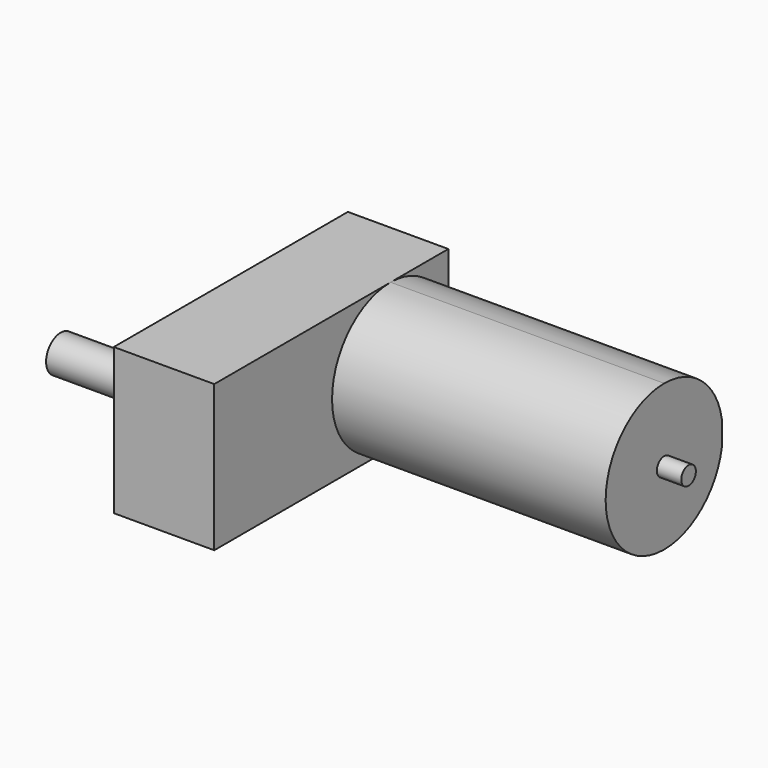
from build123d import *

# Parameters (mm, degrees)
F0_W     = 52.324
F0_H     = 152.4
F1_DEPTH = 76.2
F3_DEPTH = 142.494
F4_R     = 23.495
F5_DEPTH = 4.826
F6_R     = 9.525
F7_DEPTH = 55.372
F8_R     = 4.7625
F9_DEPTH = 12.7


with BuildPart() as f1:
    # F0 (on Top) → F1 (new body)
    with BuildSketch(Plane.XY):
        with Locations((26.162, 76.2)):
            Rectangle(F0_W, F0_H)
    extrude(amount=F1_DEPTH)

    # F2 (on face) → F3 (join)
    with BuildSketch(Plane.YZ.offset(52.324)):
        with BuildLine():
            Line((152.4, 31.89907), (152.4, 44.30093))
            ThreePointArc((152.4, 44.30093), (139.459111, 67.15052), (114.808, 76.2))
            ThreePointArc((114.808, 76.2), (76.708, 38.1), (114.808, 0))
            ThreePointArc((114.808, 0), (139.459111, 9.04948), (152.4, 31.89907))
        make_face()
    extrude(amount=F3_DEPTH)

    # F4 (on face) → F5 (join)
    with BuildSketch(Plane(origin=(0, 0, 0), x_dir=(0, -1, 0), z_dir=(-1, 0, 0))):
        with Locations((-40.695388, 37.154574)):
            Circle(F4_R)
    extrude(amount=F5_DEPTH)

    # F6 (on face) → F7 (join)
    with BuildSketch(Plane(origin=(-4.826, 0, 0), x_dir=(0, -1, 0), z_dir=(-1, 0, 0))):
        with Locations((-40.695388, 37.154574)):
            Circle(F6_R)
    extrude(amount=F7_DEPTH)

    # F8 (on face) → F9 (join)
    with BuildSketch(Plane.YZ.offset(194.818)):
        with Locations((114.808, 38.1)):
            Circle(F8_R)
    extrude(amount=F9_DEPTH)


solid = f1.part
